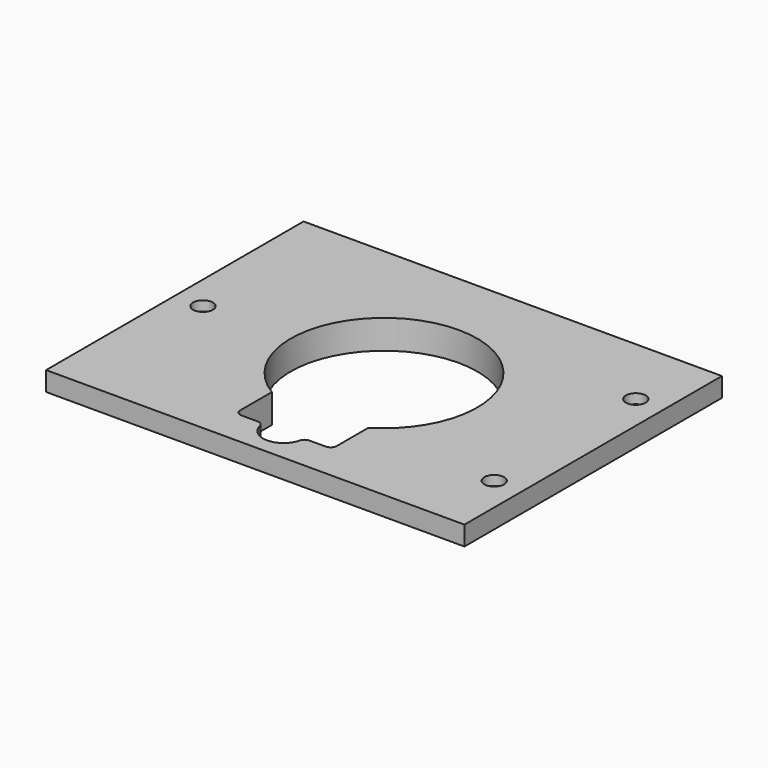
from build123d import *

# Parameters (mm, degrees)
F0_W     = 260
F0_H     = 200
F1_DEPTH = 12
F2_DEPTH = 6
F3_R     = 6.15188
F3_R_2   = 2.4892
F4_DEPTH = 6
F5_DEPTH = 18.001
F6_R     = 3.81
F8_DEPTH = 18.001
F9_R     = 3.81


with BuildPart() as f1:
    # F0 (on Top) → F1 (new body)
    with BuildSketch(Plane.XY):
        Rectangle(F0_W, F0_H)
        Polygon((-86.75, 78), (86.75, 78), (106.75, 58), (106.75, -58), (86.75, -78), (30, -78), (-30, -78), (-86.75, -78), (-106.75, -58), (-106.75, 58), align=None, mode=Mode.SUBTRACT)
        with BuildLine():
            Line((106.75, 58), (86.75, 78))
            Line((86.75, 78), (-86.75, 78))
            Line((-86.75, 78), (-106.75, 58))
            Line((-106.75, 58), (-106.75, -58))
            Line((-106.75, -58), (-86.75, -78))
            Line((-86.75, -78), (-30, -78))
            Line((-30, -78), (-30, -49.638694584))
            ThreePointArc((-30, -49.638694584), (0, 58), (30, -49.638694584))
            Line((30, -49.638694584), (30, -78))
            Line((30, -78), (86.75, -78))
            Line((86.75, -78), (106.75, -58))
            Line((106.75, -58), (106.75, 58))
        make_face()
    extrude(amount=F1_DEPTH)

    # F0 (on Top) → F2 (join)
    with BuildSketch(Plane.XY):
        with BuildLine():
            Line((106.75, 58), (86.75, 78))
            Line((86.75, 78), (-86.75, 78))
            Line((-86.75, 78), (-106.75, 58))
            Line((-106.75, 58), (-106.75, -58))
            Line((-106.75, -58), (-86.75, -78))
            Line((-86.75, -78), (-30, -78))
            Line((-30, -78), (-30, -49.638694584))
            ThreePointArc((-30, -49.638694584), (0, 58), (30, -49.638694584))
            Line((30, -49.638694584), (30, -78))
            Line((30, -78), (86.75, -78))
            Line((86.75, -78), (106.75, -58))
            Line((106.75, -58), (106.75, 58))
        make_face()
    extrude(amount=-F2_DEPTH)

    # F3 (on face) → F4 (cut)
    with BuildSketch(Plane.XY.offset(12)):
        with Locations((-112.5, 0)):
            Circle(F3_R)
        with Locations((-112.5, 0)):
            Circle(F3_R_2, mode=Mode.SUBTRACT)
        with Locations((112.5, 55)):
            Circle(F3_R)
        with Locations((112.5, 55)):
            Circle(F3_R_2, mode=Mode.SUBTRACT)
        with Locations((112.5, -55)):
            Circle(F3_R)
        with Locations((112.5, -55)):
            Circle(F3_R_2, mode=Mode.SUBTRACT)
        with Locations((-112.5, 0)):
            Circle(F3_R_2)
        with Locations((112.5, 55)):
            Circle(F3_R_2)
        with Locations((112.5, -55)):
            Circle(F3_R_2)
    extrude(amount=-F4_DEPTH, mode=Mode.SUBTRACT)

    # F3 (on face) → F5 (cut, through all)
    with BuildSketch(Plane.XY.offset(12)):
        with Locations((-112.5, 0)):
            Circle(F3_R_2)
        with Locations((112.5, 55)):
            Circle(F3_R_2)
        with Locations((112.5, -55)):
            Circle(F3_R_2)
    extrude(amount=-F5_DEPTH, mode=Mode.SUBTRACT)

    # F6
    f6_edges = [f1.edges().sort_by_distance(p)[0] for p in [
        (-30, -78, 6),
        (30, -78, 6),
    ]]
    fillet(f6_edges, radius=F6_R)

    # F7 (on face) → F8 (cut, through all)
    with BuildSketch(Plane.XY.offset(12)):
        with BuildLine():
            Line((12.7, -78), (-12.7, -78))
            ThreePointArc((-12.7, -78), (0, -90.7), (12.7, -78))
        make_face()
    extrude(amount=-F8_DEPTH, mode=Mode.SUBTRACT)

    # F9
    f9_edges = [f1.edges().sort_by_distance(p)[0] for p in [
        (-12.7, -78, 6),
        (12.7, -78, 6),
    ]]
    fillet(f9_edges, radius=F9_R)


solid = f1.part
